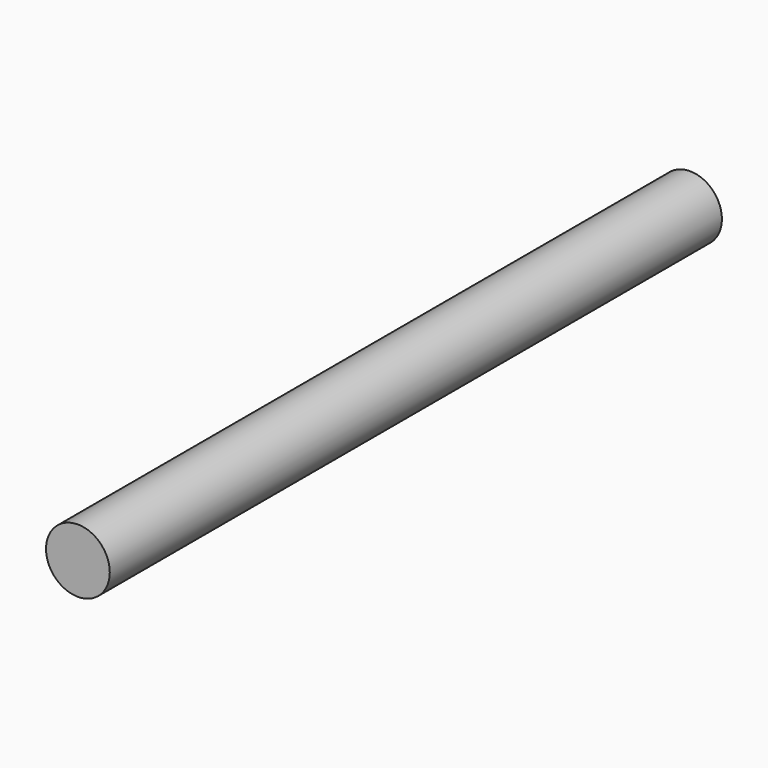
from build123d import *

# Parameters (mm, degrees)
F0_R     = 3.175
F1_DEPTH = 76.2


with BuildPart() as f1:
    # F0 (on Front) → F1 (new body)
    with BuildSketch(Plane.XZ):
        Circle(F0_R)
    extrude(amount=F1_DEPTH)


with BuildPart() as f2_1:
    # F2: copy of F1
    add(f1.part)


solid = Compound([f1.part, f2_1.part])
